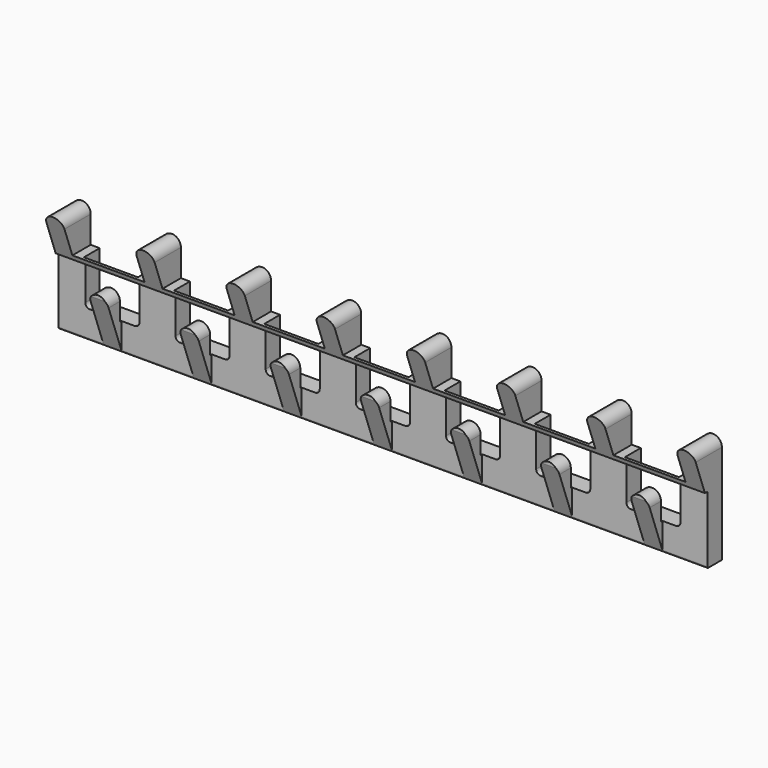
from build123d import *

# Parameters (mm, degrees)
F0_W      = 50.8
F0_H      = 152.4
F1_DEPTH  = 914.4
F3_DEPTH  = 25.4
F5_DEPTH  = 914.401
F7_DEPTH  = 914.401
F9_DEPTH  = 50.801
F11_DEPTH = 27.94


with BuildPart() as f1:
    # F0 (on Right) → F1 (new body)
    with BuildSketch(Plane.YZ):
        with Locations((-25.4, 49.212513)):
            Rectangle(F0_W, F0_H)
    extrude(amount=F1_DEPTH)

    # F2 (on face) → F3 (cut)
    with BuildSketch(Plane.XZ.offset(50.8)):
        with BuildLine():
            Line((-24.162216, -26.987487), (63.5, -26.987487))
            Line((63.5, -26.987487), (63.5, 36.512513))
            ThreePointArc((63.5, 36.512513), (76.2, 49.212513), (88.9, 36.512513))
            Line((88.9, 36.512513), (88.9, -26.987487))
            Line((88.9, -26.987487), (190.5, -26.987487))
            Line((190.5, -26.987487), (190.5, 36.512513))
            ThreePointArc((190.5, 36.512513), (203.2, 49.212513), (215.9, 36.512513))
            Line((215.9, 36.512513), (215.9, -26.987487))
            Line((215.9, -26.987487), (317.5, -26.987487))
            Line((317.5, -26.987487), (317.5, 36.512513))
            ThreePointArc((317.5, 36.512513), (330.2, 49.212513), (342.9, 36.512513))
            Line((342.9, 36.512513), (342.9, -26.987487))
            Line((342.9, -26.987487), (444.5, -26.987487))
            Line((444.5, -26.987487), (444.5, 36.512513))
            ThreePointArc((444.5, 36.512513), (457.2, 49.212513), (469.9, 36.512513))
            Line((469.9, 36.512513), (469.9, -26.987487))
            Line((469.9, -26.987487), (571.5, -26.987487))
            Line((571.5, -26.987487), (571.5, 36.512513))
            ThreePointArc((571.5, 36.512513), (584.2, 49.212513), (596.9, 36.512513))
            Line((596.9, 36.512513), (596.9, -26.987487))
            Line((596.9, -26.987487), (698.5, -26.987487))
            Line((698.5, -26.987487), (698.5, 36.512513))
            ThreePointArc((698.5, 36.512513), (711.2, 49.212513), (723.9, 36.512513))
            Line((723.9, 36.512513), (723.9, -26.987487))
            Line((723.9, -26.987487), (825.5, -26.987487))
            Line((825.5, -26.987487), (825.5, 36.512513))
            ThreePointArc((825.5, 36.512513), (838.2, 49.212513), (850.9, 36.512513))
            Line((850.9, 36.512513), (850.9, -26.987487))
            Line((850.9, -26.987487), (949.602742, -26.987487))
            Line((949.602742, -26.987487), (949.602742, 67.971823))
            Line((949.602742, 67.971823), (-24.162216, 67.971823))
            Line((-24.162216, 67.971823), (-24.162216, -26.987487))
        make_face()
    extrude(amount=-F3_DEPTH, mode=Mode.SUBTRACT)

    # F4 (on Right) → F5 (cut, through all)
    with BuildSketch(Plane.YZ):
        Polygon((-50.8, -26.987487), (-24.738065, -26.987487), (-50.8, 44.617091), align=None)
    extrude(amount=F5_DEPTH, mode=Mode.SUBTRACT)

    # F6 (on Right) → F7 (cut, through all)
    with BuildSketch(Plane.YZ):
        Polygon((-50.8, 65.742032), (-29.081721, 65.742032), (-50.8, 125.412513), align=None)
    extrude(amount=F7_DEPTH, mode=Mode.SUBTRACT)

    # F8 (on Front) → F9 (cut, through all)
    with BuildSketch(Plane.XZ):
        with BuildLine():
            Line((-17.833117, 74.612513), (0, 74.612513))
            Line((0, 74.612513), (0, 112.712513))
            ThreePointArc((0, 112.712513), (12.7, 125.412513), (25.4, 112.712513))
            Line((25.4, 112.712513), (25.4, 74.612513))
            Line((25.4, 74.612513), (127, 74.612513))
            Line((127, 74.612513), (127, 112.712513))
            ThreePointArc((127, 112.712513), (139.7, 125.412513), (152.4, 112.712513))
            Line((152.4, 112.712513), (152.4, 74.612513))
            Line((152.4, 74.612513), (254, 74.612513))
            Line((254, 74.612513), (254, 112.712513))
            ThreePointArc((254, 112.712513), (266.7, 125.412513), (279.4, 112.712513))
            Line((279.4, 112.712513), (279.4, 74.612513))
            Line((279.4, 74.612513), (381, 74.612513))
            Line((381, 74.612513), (381, 112.712513))
            ThreePointArc((381, 112.712513), (393.7, 125.412513), (406.4, 112.712513))
            Line((406.4, 112.712513), (406.4, 74.612513))
            Line((406.4, 74.612513), (508, 74.612513))
            Line((508, 74.612513), (508, 112.712513))
            ThreePointArc((508, 112.712513), (520.7, 125.412513), (533.4, 112.712513))
            Line((533.4, 112.712513), (533.4, 74.612513))
            Line((533.4, 74.612513), (635, 74.612513))
            Line((635, 74.612513), (635, 112.712513))
            ThreePointArc((635, 112.712513), (647.7, 125.412513), (660.4, 112.712513))
            Line((660.4, 112.712513), (660.4, 74.612513))
            Line((660.4, 74.612513), (762, 74.612513))
            Line((762, 74.612513), (762, 112.712513))
            ThreePointArc((762, 112.712513), (774.7, 125.412513), (787.4, 112.712513))
            Line((787.4, 112.712513), (787.4, 74.612513))
            Line((787.4, 74.612513), (889, 74.612513))
            Line((889, 74.612513), (889, 112.712513))
            ThreePointArc((889, 112.712513), (901.7, 125.412513), (914.4, 112.712513))
            Line((914.4, 112.712513), (914.4, 74.612513))
            Line((914.4, 74.612513), (957.003824, 74.612513))
            Line((957.003824, 74.612513), (957.003824, 229.980152))
            Line((957.003824, 229.980152), (-17.833117, 229.980152))
            Line((-17.833117, 229.980152), (-17.833117, 74.612513))
        make_face()
    extrude(amount=F9_DEPTH, mode=Mode.SUBTRACT)

    # F10 (on face) → F11 (cut)
    with BuildSketch(Plane(origin=(0, 0, 0), x_dir=(-1, 0, 0), z_dir=(0, 1, 0))):
        with BuildLine():
            Line((-806.45, 112.712513), (-869.95, 112.712513))
            ThreePointArc((-869.95, 112.712513), (-874.440128, 110.852641), (-876.3, 106.362513))
            Line((-876.3, 106.362513), (-876.3, 17.462513))
            ThreePointArc((-876.3, 17.462513), (-874.440128, 12.972385), (-869.95, 11.112513))
            Line((-869.95, 11.112513), (-806.45, 11.112513))
            ThreePointArc((-806.45, 11.112513), (-801.959872, 12.972385), (-800.1, 17.462513))
            Line((-800.1, 17.462513), (-800.1, 106.362513))
            ThreePointArc((-800.1, 106.362513), (-801.959872, 110.852641), (-806.45, 112.712513))
        make_face()
        with BuildLine():
            Line((-679.45, 112.712513), (-742.95, 112.712513))
            ThreePointArc((-742.95, 112.712513), (-747.440128, 110.852641), (-749.3, 106.362513))
            Line((-749.3, 106.362513), (-749.3, 17.462513))
            ThreePointArc((-749.3, 17.462513), (-747.440128, 12.972385), (-742.95, 11.112513))
            Line((-742.95, 11.112513), (-679.45, 11.112513))
            ThreePointArc((-679.45, 11.112513), (-674.959872, 12.972385), (-673.1, 17.462513))
            Line((-673.1, 17.462513), (-673.1, 106.362513))
            ThreePointArc((-673.1, 106.362513), (-674.959872, 110.852641), (-679.45, 112.712513))
        make_face()
        with BuildLine():
            Line((-552.45, 112.712513), (-615.95, 112.712513))
            ThreePointArc((-615.95, 112.712513), (-620.440128, 110.852641), (-622.3, 106.362513))
            Line((-622.3, 106.362513), (-622.3, 17.462513))
            ThreePointArc((-622.3, 17.462513), (-620.440128, 12.972385), (-615.95, 11.112513))
            Line((-615.95, 11.112513), (-552.45, 11.112513))
            ThreePointArc((-552.45, 11.112513), (-547.959872, 12.972385), (-546.1, 17.462513))
            Line((-546.1, 17.462513), (-546.1, 106.362513))
            ThreePointArc((-546.1, 106.362513), (-547.959872, 110.852641), (-552.45, 112.712513))
        make_face()
        with BuildLine():
            Line((-425.45, 112.712513), (-488.95, 112.712513))
            ThreePointArc((-488.95, 112.712513), (-493.440128, 110.852641), (-495.3, 106.362513))
            Line((-495.3, 106.362513), (-495.3, 17.462513))
            ThreePointArc((-495.3, 17.462513), (-493.440128, 12.972385), (-488.95, 11.112513))
            Line((-488.95, 11.112513), (-425.45, 11.112513))
            ThreePointArc((-425.45, 11.112513), (-420.959872, 12.972385), (-419.1, 17.462513))
            Line((-419.1, 17.462513), (-419.1, 106.362513))
            ThreePointArc((-419.1, 106.362513), (-420.959872, 110.852641), (-425.45, 112.712513))
        make_face()
        with BuildLine():
            Line((-298.45, 112.712513), (-361.95, 112.712513))
            ThreePointArc((-361.95, 112.712513), (-366.440128, 110.852641), (-368.3, 106.362513))
            Line((-368.3, 106.362513), (-368.3, 17.462513))
            ThreePointArc((-368.3, 17.462513), (-366.440128, 12.972385), (-361.95, 11.112513))
            Line((-361.95, 11.112513), (-298.45, 11.112513))
            ThreePointArc((-298.45, 11.112513), (-293.959872, 12.972385), (-292.1, 17.462513))
            Line((-292.1, 17.462513), (-292.1, 106.362513))
            ThreePointArc((-292.1, 106.362513), (-293.959872, 110.852641), (-298.45, 112.712513))
        make_face()
        with BuildLine():
            Line((-171.45, 112.712513), (-234.95, 112.712513))
            ThreePointArc((-234.95, 112.712513), (-239.440128, 110.852641), (-241.3, 106.362513))
            Line((-241.3, 106.362513), (-241.3, 17.462513))
            ThreePointArc((-241.3, 17.462513), (-239.440128, 12.972385), (-234.95, 11.112513))
            Line((-234.95, 11.112513), (-171.45, 11.112513))
            ThreePointArc((-171.45, 11.112513), (-166.959872, 12.972385), (-165.1, 17.462513))
            Line((-165.1, 17.462513), (-165.1, 106.362513))
            ThreePointArc((-165.1, 106.362513), (-166.959872, 110.852641), (-171.45, 112.712513))
        make_face()
        with BuildLine():
            Line((-44.45, 112.712513), (-107.95, 112.712513))
            ThreePointArc((-107.95, 112.712513), (-112.440128, 110.852641), (-114.3, 106.362513))
            Line((-114.3, 106.362513), (-114.3, 17.462513))
            ThreePointArc((-114.3, 17.462513), (-112.440128, 12.972385), (-107.95, 11.112513))
            Line((-107.95, 11.112513), (-44.45, 11.112513))
            ThreePointArc((-44.45, 11.112513), (-39.959872, 12.972385), (-38.1, 17.462513))
            Line((-38.1, 17.462513), (-38.1, 106.362513))
            ThreePointArc((-38.1, 106.362513), (-39.959872, 110.852641), (-44.45, 112.712513))
        make_face()
    extrude(amount=-F11_DEPTH, mode=Mode.SUBTRACT)


solid = f1.part
